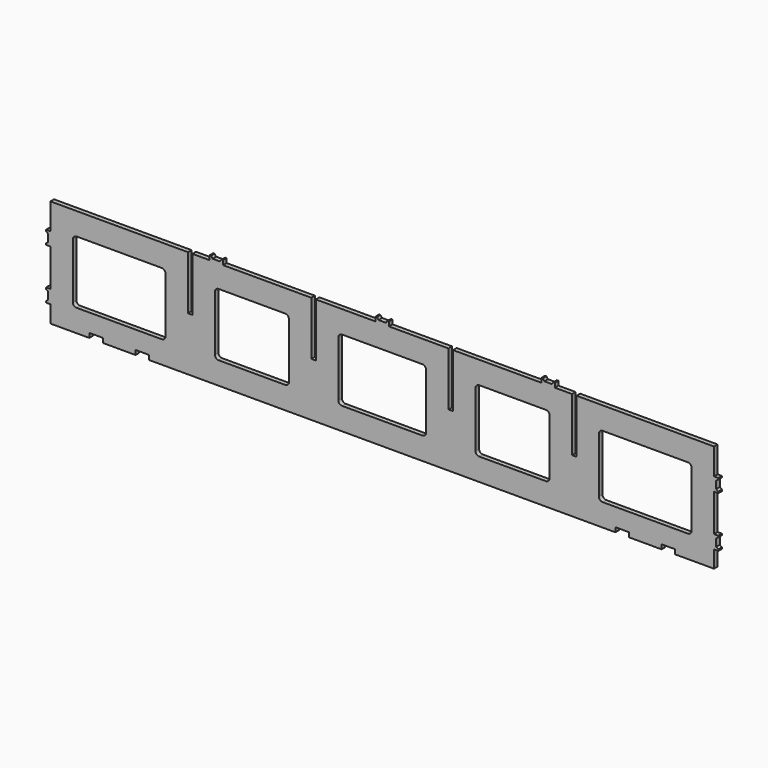
from build123d import *

# Parameters (mm, degrees)
F1_DEPTH = 6


with BuildPart() as f1:
    # F0 (on Front) → F1 (new body)
    with BuildSketch(Plane.XZ):
        Polygon((184, 0), (0, 0), (0, -35.21), (-5.8, -35.21), (-5.8, -37.21), (-3, -39.21), (-3, -49.21), (-5.8, -51.21), (-5.8, -53.21), (0, -53.21), (0, -103.23), (-5.8, -103.23), (-5.8, -105.23), (-3, -107.23), (-3, -117.23), (-5.8, -119.23), (-5.8, -121.23), (0, -121.23), (0, -144), (52, -144), (52, -137.99), (70.1, -137.99), (70.1, -144), (114, -144), (114, -137.99), (132.1, -137.99), (132.1, -144), (755.98, -144), (755.98, -137.99), (774, -137.99), (774, -144), (817.9, -144), (817.9, -137.99), (836, -137.99), (836, -144), (888, -144), (888, -121.23), (893.8, -121.23), (893.8, -119.23), (891, -117.23), (891, -107.23), (893.8, -105.23), (893.8, -103.23), (888, -103.23), (888, -53.21), (893.8, -53.21), (893.8, -51.21), (891, -49.21), (891, -39.21), (893.8, -37.21), (893.8, -35.21), (888, -35.21), (888, 0), (704, 0), (704, -72.01), (697.99, -72.01), (697.99, 0), (675, 0), (675, 5.8), (673, 5.8), (671, 3), (661, 3), (659, 5.8), (657, 5.8), (657, 0), (538.8, 0), (538.8, -72.01), (532.79, -72.01), (532.79, 0), (453, 0), (453, 5.8), (451, 5.8), (449, 3), (439, 3), (437, 5.8), (435, 5.8), (435, 0), (355.21, 0), (355.21, -72.01), (349.2, -72.01), (349.2, 0), (231, 0), (231, 5.8), (229, 5.8), (227, 3), (217, 3), (215, 5.8), (213, 5.8), (213, 0), (190.01, 0), (190.01, -72.01), (184, -72.01), align=None)
        with BuildLine():
            ThreePointArc((30, -35), (31.464466, -31.464466), (35, -30))
            Line((35, -30), (149, -30))
            ThreePointArc((149, -30), (152.535534, -31.464466), (154, -35))
            Line((154, -35), (154, -109))
            ThreePointArc((154, -109), (152.535534, -112.535534), (149, -114))
            Line((149, -114), (35, -114))
            ThreePointArc((35, -114), (31.464466, -112.535534), (30, -109))
            Line((30, -109), (30, -35))
        make_face(mode=Mode.SUBTRACT)
        with BuildLine():
            Line((220.01, -109), (220.01, -35))
            ThreePointArc((220.01, -35), (221.474466, -31.464466), (225.01, -30))
            Line((225.01, -30), (314.2, -30))
            ThreePointArc((314.2, -30), (317.735534, -31.464466), (319.2, -35))
            Line((319.2, -35), (319.2, -109))
            ThreePointArc((319.2, -109), (317.735534, -112.535534), (314.2, -114))
            Line((314.2, -114), (225.01, -114))
            ThreePointArc((225.01, -114), (221.474466, -112.535534), (220.01, -109))
        make_face(mode=Mode.SUBTRACT)
        with BuildLine():
            ThreePointArc((385.21, -35), (386.674466, -31.464466), (390.21, -30))
            Line((390.21, -30), (497.79, -30))
            ThreePointArc((497.79, -30), (501.325534, -31.464466), (502.79, -35))
            Line((502.79, -35), (502.79, -109))
            ThreePointArc((502.79, -109), (501.325534, -112.535534), (497.79, -114))
            Line((497.79, -114), (390.21, -114))
            ThreePointArc((390.21, -114), (386.674466, -112.535534), (385.21, -109))
            Line((385.21, -109), (385.21, -35))
        make_face(mode=Mode.SUBTRACT)
        with BuildLine():
            ThreePointArc((568.8, -35), (570.264466, -31.464466), (573.8, -30))
            Line((573.8, -30), (662.99, -30))
            ThreePointArc((662.99, -30), (666.525534, -31.464466), (667.99, -35))
            Line((667.99, -35), (667.99, -109))
            ThreePointArc((667.99, -109), (666.525534, -112.535534), (662.99, -114))
            Line((662.99, -114), (573.8, -114))
            ThreePointArc((573.8, -114), (570.264466, -112.535534), (568.8, -109))
            Line((568.8, -109), (568.8, -35))
        make_face(mode=Mode.SUBTRACT)
        with BuildLine():
            ThreePointArc((734, -35), (735.464466, -31.464466), (739, -30))
            Line((739, -30), (853, -30))
            ThreePointArc((853, -30), (856.535534, -31.464466), (858, -35))
            Line((858, -35), (858, -109))
            ThreePointArc((858, -109), (856.535534, -112.535534), (853, -114))
            Line((853, -114), (739, -114))
            ThreePointArc((739, -114), (735.464466, -112.535534), (734, -109))
            Line((734, -109), (734, -35))
        make_face(mode=Mode.SUBTRACT)
    extrude(amount=F1_DEPTH)


solid = f1.part
